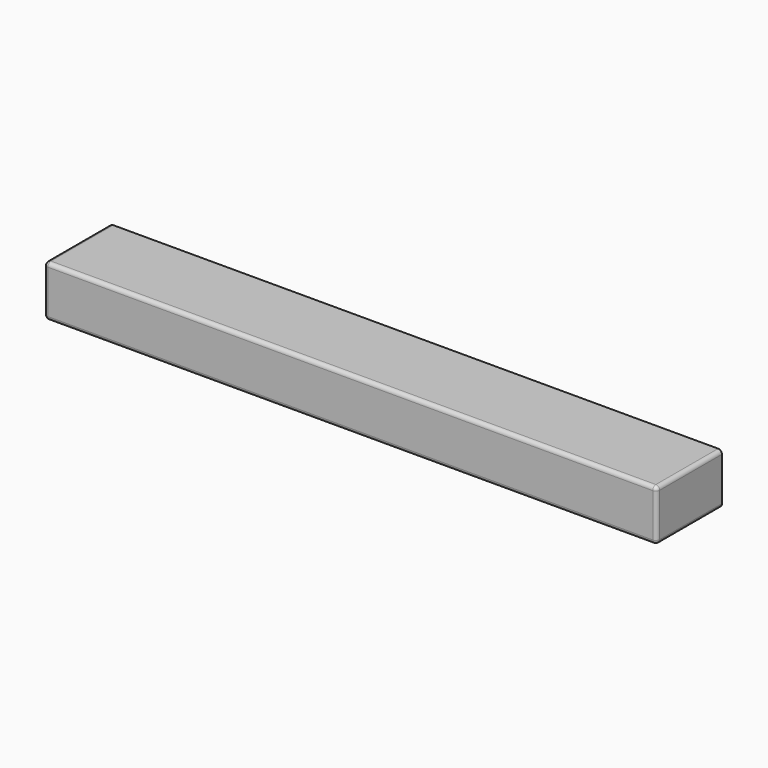
from build123d import *

# Parameters (mm, degrees)
F0_W     = 203.2
F0_H     = 127
F1_DEPTH = 762
F2_R     = 9.525


with BuildPart() as f1:
    # F0 (on Right) → F1 (new body, symmetric)
    with BuildSketch(Plane.YZ):
        with Locations((-101.6, 63.5)):
            Rectangle(F0_W, F0_H)
    extrude(amount=F1_DEPTH, both=True)

    # F2
    f2_edges = [f1.edges().sort_by_distance(p)[0] for p in [
        (0, -203.2, 127),
        (762, -101.6, 127),
        (762, -203.2, 63.5),
        (762, -101.6, 0),
        (0, -203.2, 0),
        (-762, -203.2, 63.5),
        (-762, -101.6, 127),
        (-762, -101.6, 0),
    ]]
    fillet(f2_edges, radius=F2_R)


solid = f1.part
